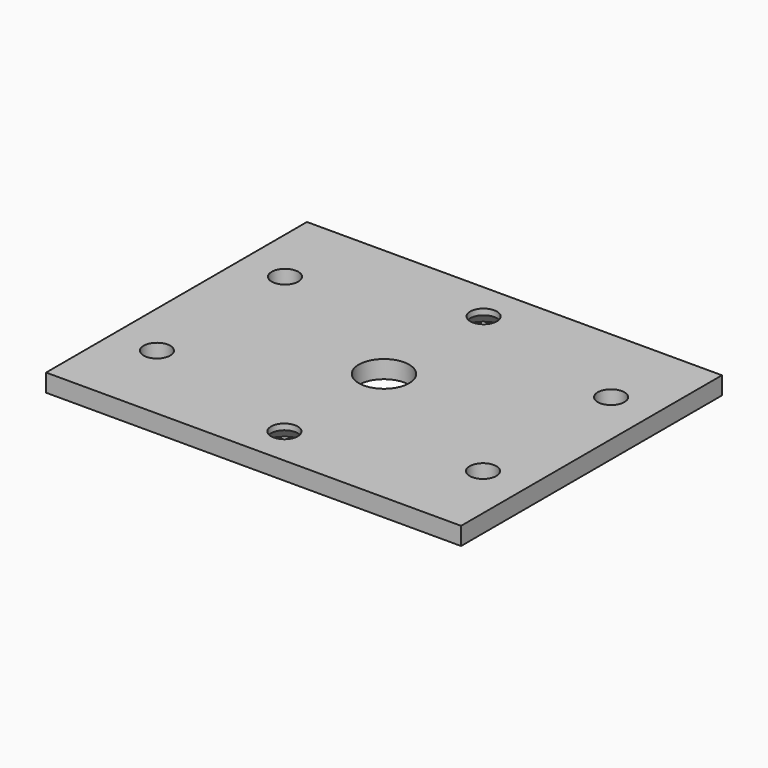
from build123d import *

# Parameters (mm, degrees)
SKETCH_W            = 70
SKETCH_H            = 55
PAD_DEPTH           = 3
SKETCH001_R         = 2.25
HOLE_DEPTH          = 25
HOLE001_D           = 4.5
HOLE001_DEPTH       = 25
HOLE001_CSINK_D     = 8.5
HOLE001_CSINK_ANGLE = 90
SKETCH003_R         = 4.25
HOLE002_DEPTH       = 25


with BuildPart() as part:
    # Sketch → Pad (new body)
    with BuildSketch(Plane.XY):
        Rectangle(SKETCH_W, SKETCH_H)
    extrude(amount=PAD_DEPTH)

    # Sketch001 (on Face6 of Pad) → Hole (cut)
    with BuildSketch(Plane.XY.offset(3)):
        with Locations((-27.5, 13.5)):
            Circle(SKETCH001_R)
        with Locations((-27.5, -13.5)):
            Circle(SKETCH001_R)
        with Locations((27.5, 13.5)):
            Circle(SKETCH001_R)
        with Locations((27.5, -13.5)):
            Circle(SKETCH001_R)
    extrude(amount=-HOLE_DEPTH, mode=Mode.SUBTRACT)

    # Hole001
    with Locations(Plane(origin=(0, 0, 0), x_dir=(1, 0, 0), z_dir=(0, 0, -1))):
        with Locations((0, 21), (0, -21)):
            CounterSinkHole(HOLE001_D / 2, HOLE001_CSINK_D / 2, depth=HOLE001_DEPTH, counter_sink_angle=HOLE001_CSINK_ANGLE)

    # Sketch003 (on Face5 of Hole001) → Hole002 (cut)
    with BuildSketch(Plane.XY.offset(3)):
        Circle(SKETCH003_R)
    extrude(amount=-HOLE002_DEPTH, mode=Mode.SUBTRACT)


solid = part.part
